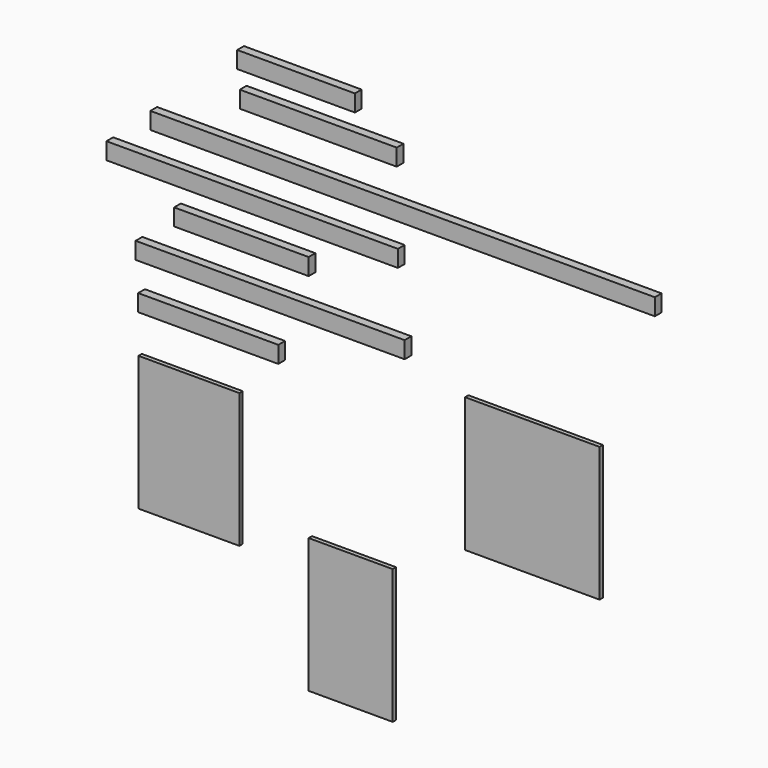
from build123d import *

# Parameters (mm, degrees)
F0_W      = 2286
F0_H      = 76.2
F1_DEPTH  = 38.1
F2_W      = 533.4
F2_H      = 76.2
F3_DEPTH  = 38.1
F4_W      = 711.2
F4_H      = 76.2
F5_DEPTH  = 38.1
F6_W      = 1320.8
F6_H      = 76.2
F7_DEPTH  = 38.1
F8_W      = 533.4
F8_H      = 76.2
F9_DEPTH  = 38.1
F10_W     = 1219.2
F10_H     = 76.2
F11_DEPTH = 38.1
F13_W     = 609.6
F13_H     = 76.2
F14_DEPTH = 38.1
F15_W     = 635
F15_H     = 76.2
F16_DEPTH = 38.1
F17_W     = 609.6
F17_H     = 609.6
F18_DEPTH = 19.05
F19_W     = 457.2
F19_H     = 609.6
F20_DEPTH = 19.05
F21_W     = 381
F21_H     = 609.6
F22_DEPTH = 19.05


with BuildPart() as f1:
    # F0 (on Front) → F1 (new body)
    with BuildSketch(Plane.XZ):
        with Locations((63.37081, -75.803273)):
            Rectangle(F0_W, F0_H)
    extrude(amount=F1_DEPTH)


with BuildPart() as f3:
    # F2 (on Front) → F3 (new body)
    with BuildSketch(Plane.XZ):
        with Locations((-419.480242, 295.197657)):
            Rectangle(F2_W, F2_H)
    extrude(amount=F3_DEPTH)


with BuildPart() as f5:
    # F4 (on Front) → F5 (new body)
    with BuildSketch(Plane.XZ):
        with Locations((-318.899173, 140.750785)):
            Rectangle(F4_W, F4_H)
    extrude(amount=F5_DEPTH)


with BuildPart() as f7:
    # F6 (on Front) → F7 (new body)
    with BuildSketch(Plane.XZ):
        with Locations((-618.389063, -261.451548)):
            Rectangle(F6_W, F6_H)
    extrude(amount=F7_DEPTH)


with BuildPart() as f9:
    # F8 (on Front) → F9 (new body)
    with BuildSketch(Plane.XZ):
        with Locations((-266.7, -385.047625)):
            Rectangle(F8_W, F8_H)
    extrude(amount=F9_DEPTH)


with BuildPart() as f11:
    # F10 (on Front) → F11 (new body)
    with BuildSketch(Plane.XZ):
        with Locations((-536.997348, -615.818064)):
            Rectangle(F10_W, F10_H)
    extrude(amount=F11_DEPTH)


with BuildPart() as f14:
    # F13 (on Front) → F14 (new body)
    with BuildSketch(Plane.XZ):
        with Locations((-667.324111, -425.702255)):
            Rectangle(F13_W, F13_H)
    extrude(amount=F14_DEPTH)


with BuildPart() as f16:
    # F15 (on Front) → F16 (new body)
    with BuildSketch(Plane.XZ):
        with Locations((-817.517385, -820.643223)):
            Rectangle(F15_W, F15_H)
    extrude(amount=F16_DEPTH)


with BuildPart() as f18:
    # F17 (on Front) → F18 (new body)
    with BuildSketch(Plane.XZ):
        with Locations((635.8677, -1033.717296)):
            Rectangle(F17_W, F17_H)
    extrude(amount=F18_DEPTH)


with BuildPart() as f20:
    # F19 (on Front) → F20 (new body)
    with BuildSketch(Plane.XZ):
        with Locations((-920.312621, -1349.933445)):
            Rectangle(F19_W, F19_H)
    extrude(amount=F20_DEPTH)


with BuildPart() as f22:
    # F21 (on Front) → F22 (new body)
    with BuildSketch(Plane.XZ):
        with Locations((-187.16579, -1826.184869)):
            Rectangle(F21_W, F21_H)
    extrude(amount=F22_DEPTH)


solid = Compound([f1.part, f3.part, f5.part, f7.part, f11.part, f14.part, f16.part, f18.part, f20.part, f22.part])
